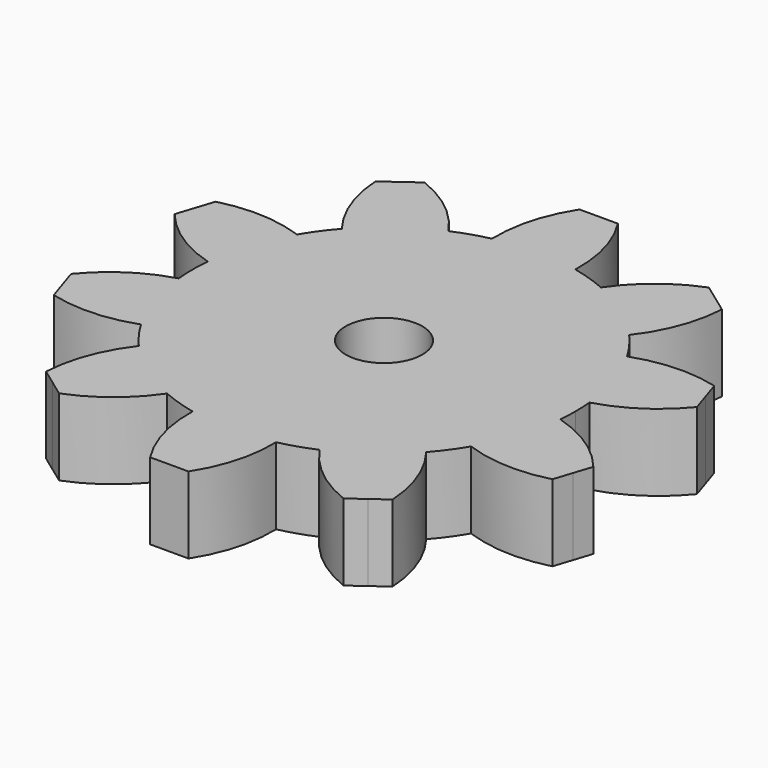
from build123d import *

# Parameters (mm, degrees)
F1_DEPTH = 2
F2_R     = 1
F3_DEPTH = 2.001


with BuildPart() as f1:
    # F0 (on Top) → F1 (new body)
    with BuildSketch(Plane.XY):
        with BuildLine():
            ThreePointArc((4.977473, -0.474095), (4.994365, -0.237315), (5, 0))
            ThreePointArc((5, 0), (4.994365, 0.237315), (4.977473, 0.474095))
            ThreePointArc((4.977473, 0.474095), (4.755283, 1.545085), (4.305526, 2.542134))
            ThreePointArc((4.305526, 2.542134), (4.045085, 2.938926), (3.748194, 3.309236))
            ThreePointArc((3.748194, 3.309236), (2.938926, 4.045085), (1.989014, 4.587355))
            ThreePointArc((1.989014, 4.587355), (1.545085, 4.755283), (1.087233, 4.880361))
            ThreePointArc((1.087233, 4.880361), (0, 5), (-1.087233, 4.880361))
            ThreePointArc((-1.087233, 4.880361), (-1.545085, 4.755283), (-1.989014, 4.587355))
            ThreePointArc((-1.989014, 4.587355), (-2.938926, 4.045085), (-3.748194, 3.309236))
            ThreePointArc((-3.748194, 3.309236), (-4.045085, 2.938926), (-4.305526, 2.542134))
            ThreePointArc((-4.305526, 2.542134), (-4.755283, 1.545085), (-4.977473, 0.474095))
            ThreePointArc((-4.977473, 0.474095), (-5, 0), (-4.977473, -0.474095))
            ThreePointArc((-4.977473, -0.474095), (-4.755283, -1.545085), (-4.305526, -2.542134))
            ThreePointArc((-4.305526, -2.542134), (-4.045085, -2.938926), (-3.748194, -3.309236))
            ThreePointArc((-3.748194, -3.309236), (-2.938926, -4.045085), (-1.989014, -4.587355))
            ThreePointArc((-1.989014, -4.587355), (-1.545085, -4.755283), (-1.087233, -4.880361))
            ThreePointArc((-1.087233, -4.880361), (0, -5), (1.087233, -4.880361))
            ThreePointArc((1.087233, -4.880361), (1.545085, -4.755283), (1.989014, -4.587355))
            ThreePointArc((1.989014, -4.587355), (2.938926, -4.045085), (3.748194, -3.309236))
            ThreePointArc((3.748194, -3.309236), (4.045085, -2.938926), (4.305526, -2.542134))
            ThreePointArc((4.305526, -2.542134), (4.755283, -1.545085), (4.977473, -0.474095))
        make_face()
        with BuildLine():
            ThreePointArc((4.305526, 2.542134), (4.755283, 1.545085), (4.977473, 0.474095))
            ThreePointArc((4.977473, 0.474095), (5.987228, 0.940952), (6.811904, 1.687591))
            Line((6.811904, 1.687591), (6.657396, 2.163119))
            Line((6.657396, 2.163119), (6.502887, 2.638647))
            ThreePointArc((6.502887, 2.638647), (5.396847, 2.757958), (4.305526, 2.542134))
        make_face()
        with BuildLine():
            ThreePointArc((6.811904, -1.687591), (5.987228, -0.940952), (4.977473, -0.474095))
            ThreePointArc((4.977473, -0.474095), (4.755283, -1.545085), (4.305526, -2.542134))
            ThreePointArc((4.305526, -2.542134), (5.396847, -2.757958), (6.502887, -2.638647))
            Line((6.502887, -2.638647), (6.657396, -2.163119))
            Line((6.657396, -2.163119), (6.811904, -1.687591))
        make_face()
        with BuildLine():
            ThreePointArc((1.989014, 4.587355), (2.938926, 4.045085), (3.748194, 3.309236))
            ThreePointArc((3.748194, 3.309236), (4.290691, 4.28045), (4.519005, 5.369226))
            Line((4.519005, 5.369226), (4.114497, 5.663119))
            Line((4.114497, 5.663119), (3.709988, 5.957012))
            ThreePointArc((3.709988, 5.957012), (2.745054, 5.403422), (1.989014, 4.587355))
        make_face()
        with BuildLine():
            ThreePointArc((4.519005, -5.369226), (4.290691, -4.28045), (3.748194, -3.309236))
            ThreePointArc((3.748194, -3.309236), (2.938926, -4.045085), (1.989014, -4.587355))
            ThreePointArc((1.989014, -4.587355), (2.745054, -5.403422), (3.709988, -5.957012))
            Line((3.709988, -5.957012), (4.114497, -5.663119))
            Line((4.114497, -5.663119), (4.519005, -5.369226))
        make_face()
        with BuildLine():
            ThreePointArc((-1.087233, 4.880361), (0, 5), (1.087233, 4.880361))
            ThreePointArc((1.087233, 4.880361), (0.955257, 5.984962), (0.5, 7))
            Line((0.5, 7), (0, 7))
            Line((0, 7), (-0.5, 7))
            ThreePointArc((-0.5, 7), (-0.955257, 5.984962), (-1.087233, 4.880361))
        make_face()
        with BuildLine():
            ThreePointArc((0.5, -7), (0.955257, -5.984962), (1.087233, -4.880361))
            ThreePointArc((1.087233, -4.880361), (0, -5), (-1.087233, -4.880361))
            ThreePointArc((-1.087233, -4.880361), (-0.955257, -5.984962), (-0.5, -7))
            Line((-0.5, -7), (0, -7))
            Line((0, -7), (0.5, -7))
        make_face()
        with BuildLine():
            ThreePointArc((-3.748194, 3.309236), (-2.938926, 4.045085), (-1.989014, 4.587355))
            ThreePointArc((-1.989014, 4.587355), (-2.745054, 5.403422), (-3.709988, 5.957012))
            Line((-3.709988, 5.957012), (-4.114497, 5.663119))
            Line((-4.114497, 5.663119), (-4.519005, 5.369226))
            ThreePointArc((-4.519005, 5.369226), (-4.290691, 4.28045), (-3.748194, 3.309236))
        make_face()
        with BuildLine():
            ThreePointArc((-3.709988, -5.957012), (-2.745054, -5.403422), (-1.989014, -4.587355))
            ThreePointArc((-1.989014, -4.587355), (-2.938926, -4.045085), (-3.748194, -3.309236))
            ThreePointArc((-3.748194, -3.309236), (-4.290691, -4.28045), (-4.519005, -5.369226))
            Line((-4.519005, -5.369226), (-4.114497, -5.663119))
            Line((-4.114497, -5.663119), (-3.709988, -5.957012))
        make_face()
        with BuildLine():
            ThreePointArc((-4.977473, 0.474095), (-4.755283, 1.545085), (-4.305526, 2.542134))
            ThreePointArc((-4.305526, 2.542134), (-5.396847, 2.757958), (-6.502887, 2.638647))
            Line((-6.502887, 2.638647), (-6.657396, 2.163119))
            Line((-6.657396, 2.163119), (-6.811904, 1.687591))
            ThreePointArc((-6.811904, 1.687591), (-5.987228, 0.940952), (-4.977473, 0.474095))
        make_face()
        with BuildLine():
            ThreePointArc((-6.502887, -2.638647), (-5.396847, -2.757958), (-4.305526, -2.542134))
            ThreePointArc((-4.305526, -2.542134), (-4.755283, -1.545085), (-4.977473, -0.474095))
            ThreePointArc((-4.977473, -0.474095), (-5.987228, -0.940952), (-6.811904, -1.687591))
            Line((-6.811904, -1.687591), (-6.657396, -2.163119))
            Line((-6.657396, -2.163119), (-6.502887, -2.638647))
        make_face()
    extrude(amount=F1_DEPTH)

    # F2 (on face) → F3 (cut, through all)
    with BuildSketch(Plane.XY.offset(2)):
        Circle(F2_R)
    extrude(amount=-F3_DEPTH, mode=Mode.SUBTRACT)


solid = f1.part
